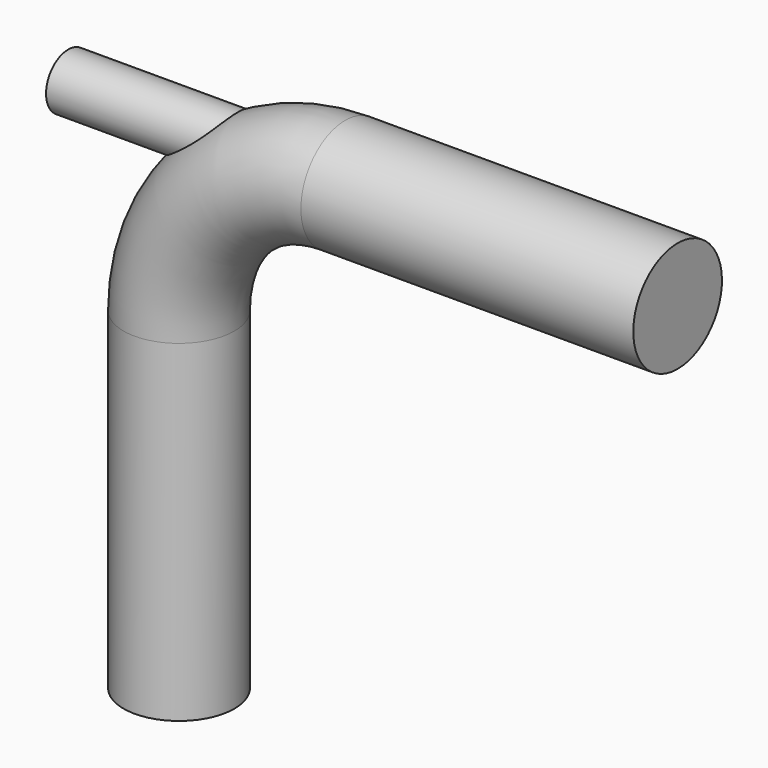
from build123d import *

# Parameters (mm, degrees)
F1_R     = 0.5
F4_R     = 0.25
F5_DEPTH = 3


with BuildPart() as f2:
    # F2: sweep along a path in F0
    with BuildLine(Plane.XZ) as f2_path:
        Line((0, 0), (0, 3))
        ThreePointArc((0, 3), (0.4393398282, 4.0606601718), (1.5, 4.5))
        Line((1.5, 4.5), (4.5, 4.5))
    # F1 (on Top) → F2 (sweep)
    with BuildSketch(Plane.XY):
        Circle(F1_R)
    sweep(path=f2_path.line)

    # F4 (on offset) → F5 (join)
    with BuildSketch(Plane.YZ.offset(-1)):
        with Locations((0, 4.5)):
            Circle(F4_R)
    extrude(amount=F5_DEPTH)


solid = f2.part
